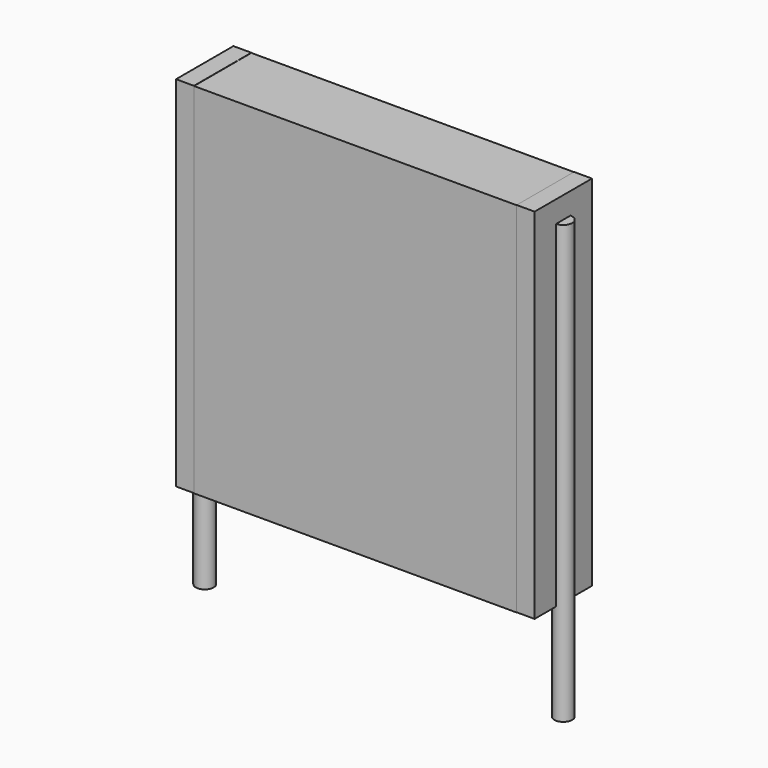
from build123d import *

# Parameters (mm, degrees)
SKETCH_W          = 9
SKETCH_H          = 2
PAD_DEPTH         = 10
SKETCH001_R       = 0.25
PAD001_DEPTH      = 9
PAD001_DEPTH_BACK = 3.2
SKETCH002_W       = 0.5
SKETCH002_H       = 2
PAD002_DEPTH      = 10


with BuildPart() as pad:
    # Sketch → Pad (new body)
    with BuildSketch(Plane.XY.offset(0.1)):
        with Locations((5, 0)):
            Rectangle(SKETCH_W, SKETCH_H)
    extrude(amount=PAD_DEPTH)


with BuildPart() as pad001:
    # Sketch001 → Pad001 (new body, two sides)
    with BuildSketch(Plane.XY.offset(0.5)) as pad001_sk:
        Circle(SKETCH001_R)
        with Locations((10, 0)):
            Circle(SKETCH001_R)
    extrude(amount=PAD001_DEPTH)
    extrude(pad001_sk.sketch, amount=-PAD001_DEPTH_BACK)


with BuildPart() as pad002:
    # Sketch002 → Pad002 (new body)
    with BuildSketch(Plane.XY.offset(0.105)):
        with Locations((0.25, 0)):
            Rectangle(SKETCH002_W, SKETCH002_H)
        with Locations((9.75, 0)):
            Rectangle(SKETCH002_W, SKETCH002_H)
    extrude(amount=PAD002_DEPTH)


solid = Compound([pad.part, pad001.part, pad002.part])
